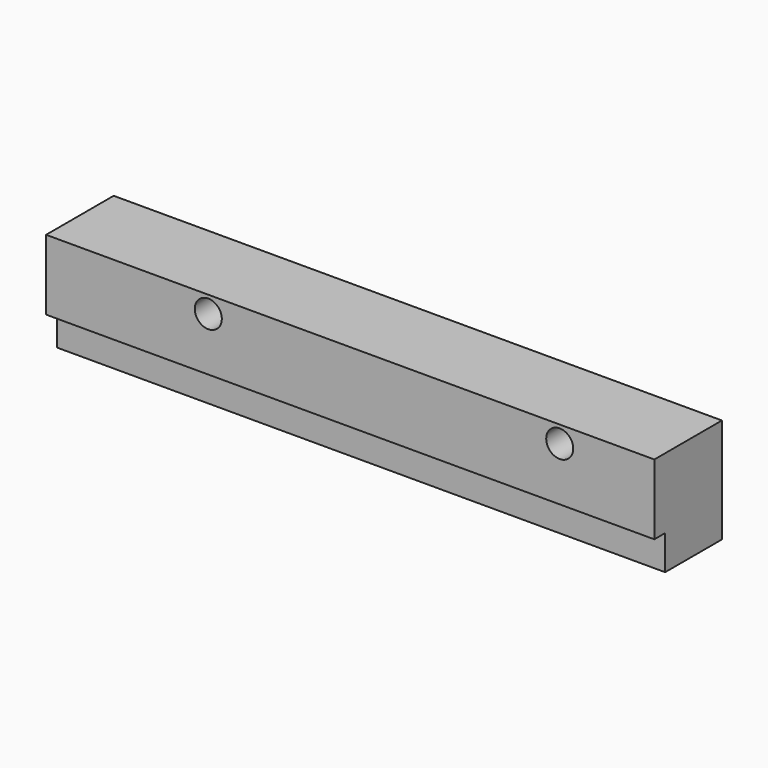
from build123d import *

# Parameters (mm, degrees)
F0_W     = 180
F0_H     = 31
F1_DEPTH = 25
F2_R     = 4
F3_DEPTH = 25.001
F4_W     = 4
F4_H     = 10.2
F5_DEPTH = 180.001


with BuildPart() as f1:
    # F0 (on Front) → F1 (new body)
    with BuildSketch(Plane.XZ):
        with Locations((90, 15.5)):
            Rectangle(F0_W, F0_H)
    extrude(amount=F1_DEPTH)

    # F2 (on face) → F3 (cut, through all)
    with BuildSketch(Plane(origin=(0, 0, 0), x_dir=(-1, 0, 0), z_dir=(0, 1, 0))):
        with Locations((-152, 26)):
            Circle(F2_R)
        with Locations((-48, 26)):
            Circle(F2_R)
    extrude(amount=-F3_DEPTH, mode=Mode.SUBTRACT)

    # F4 (on face) → F5 (cut, through all)
    with BuildSketch(Plane.YZ.offset(180)):
        with Locations((-23, 5.1)):
            Rectangle(F4_W, F4_H)
    extrude(amount=-F5_DEPTH, mode=Mode.SUBTRACT)


solid = f1.part
